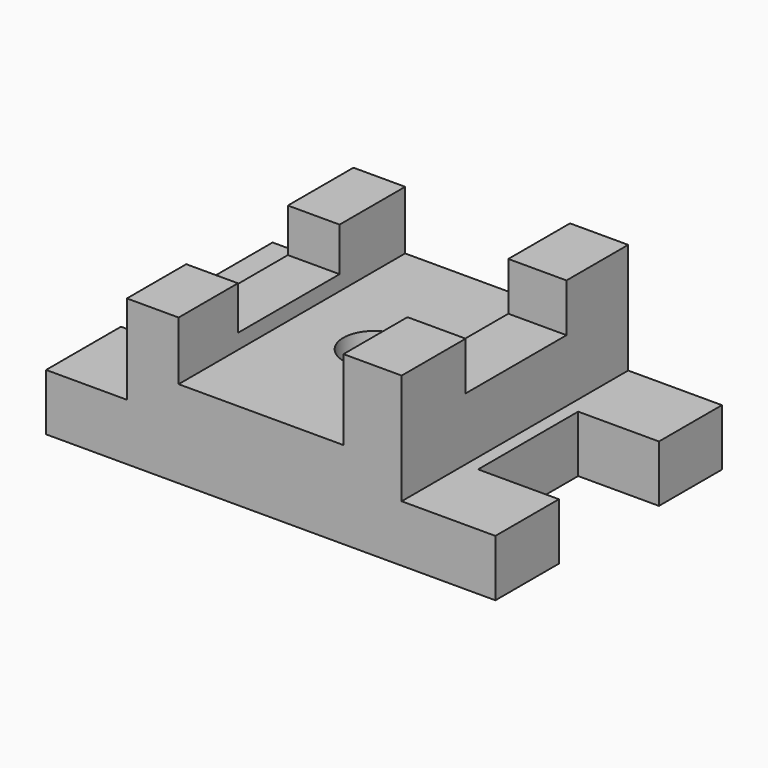
from build123d import *

# Parameters (mm, degrees)
F0_W      = 51.8160052598
F0_H      = 89.0015969053
F0_R      = 9.7547897259
F1_DEPTH  = 27.432
F2_W      = 25.1459991559
F2_H      = 15.1513946929
F2_W_2    = 24.2315987125
F3_DEPTH  = 18.288
F4_W      = 25.7555991411
F4_H      = 13.7160010636
F4_W_2    = 23.3171992004
F5_DEPTH  = 16.256
F6_W      = 89.0015969053
F6_H      = 17.8308002651
F7_DEPTH  = 4.064
F8_W      = 24.9466653913
F8_H      = 17.8308002651
F8_W_2    = 24.7357338667
F9_DEPTH  = 25.4
F10_W     = 28.8035981357
F10_H     = 16.9163998216
F10_W_2   = 29.4131976552
F10_H_2   = 17.8308002651
F11_DEPTH = 25.4


with BuildPart() as f1:
    # F0 (on Top) → F1 (new body)
    with BuildSketch(Plane.XY):
        with Locations((1.5240013599, 7.7724005096)):
            Rectangle(F0_W, F0_H)
        with Locations((1.5240013599, 7.7724005096)):
            Circle(F0_R, mode=Mode.SUBTRACT)
    extrude(amount=F1_DEPTH)

    # F2 (on face) → F3 (join)
    with BuildSketch(Plane.YZ.offset(27.4320039898)):
        with Locations((-24.1553983651, 45.0302423907)):
            Rectangle(F2_W, F2_H)
        Polygon((-11.5823987871, 37.4545450442), (-36.7283979431, 37.4545450442), (-36.7283979431, 0), (52.2731989622, 0), (52.2731989622, 37.4545450442), (28.0416002497, 37.4545450442), align=None)
        with Locations((40.157399606, 45.0302423907)):
            Rectangle(F2_W_2, F2_H)
    extrude(amount=F3_DEPTH)

    # F4 (on face) → F5 (join)
    with BuildSketch(Plane(origin=(-24.3840012699, 0, 0), x_dir=(0, -1, 0), z_dir=(-1, 0, 0))):
        with Locations((-39.3953993917, 39.0144009143)):
            Rectangle(F4_W, F4_H)
        Polygon((-26.5175998211, 32.1564003825), (-52.2731989622, 32.1564003825), (-52.2731989622, 0), (36.7283979431, 0), (36.7283979431, 32.1564003825), (13.4111987427, 32.1564003825), align=None)
        with Locations((25.0697983429, 39.0144009143)):
            Rectangle(F4_W_2, F4_H)
    extrude(amount=F5_DEPTH)

    # F6 (on face) → F7 (join)
    with BuildSketch(Plane.YZ.offset(45.7200039898)):
        with Locations((7.7724005096, 8.9154001325)):
            Rectangle(F6_W, F6_H)
    extrude(amount=F7_DEPTH)

    # F8 (on face) → F9 (join)
    with BuildSketch(Plane.YZ.offset(49.7840039898)):
        with Locations((-24.2550652474, 8.9154001325)):
            Rectangle(F8_W, F8_H)
        with Locations((39.9053320289, 8.9154001325)):
            Rectangle(F8_W_2, F8_H)
    extrude(amount=F9_DEPTH)

    # F10 (on face) → F11 (join)
    with BuildSketch(Plane(origin=(-40.6400012699, 0, 0), x_dir=(0, -1, 0), z_dir=(-1, 0, 0))):
        with Locations((-37.8713998944, 8.4581999108)):
            Rectangle(F10_W, F10_H)
        with Locations((22.0217991155, 8.9154001325)):
            Rectangle(F10_W_2, F10_H_2)
    extrude(amount=F11_DEPTH)


solid = f1.part
